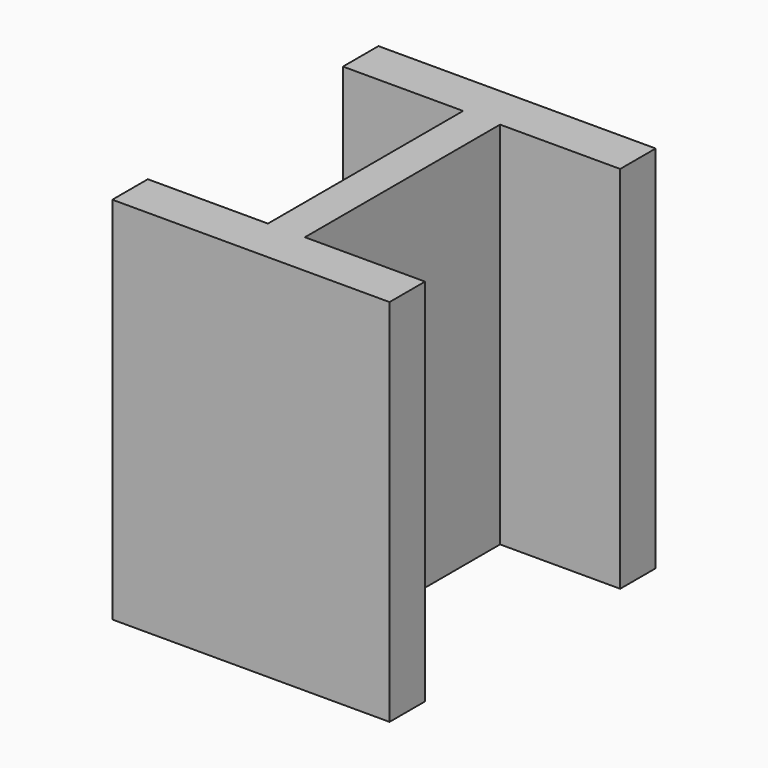
from build123d import *

# Parameters (mm, degrees)
PAD_DEPTH = 100


with BuildPart() as part:
    # Sketch → Pad (new body)
    with BuildSketch(Plane.XY):
        Polygon((-37.5, 45), (37.5, 45), (37.5, 33), (5, 33), (5, -33), (37.5, -33), (37.5, -45), (-37.5, -45), (-37.5, -33), (-5, -33), (-5, 33), (-37.5, 33), align=None)
    extrude(amount=PAD_DEPTH)


solid = part.part
